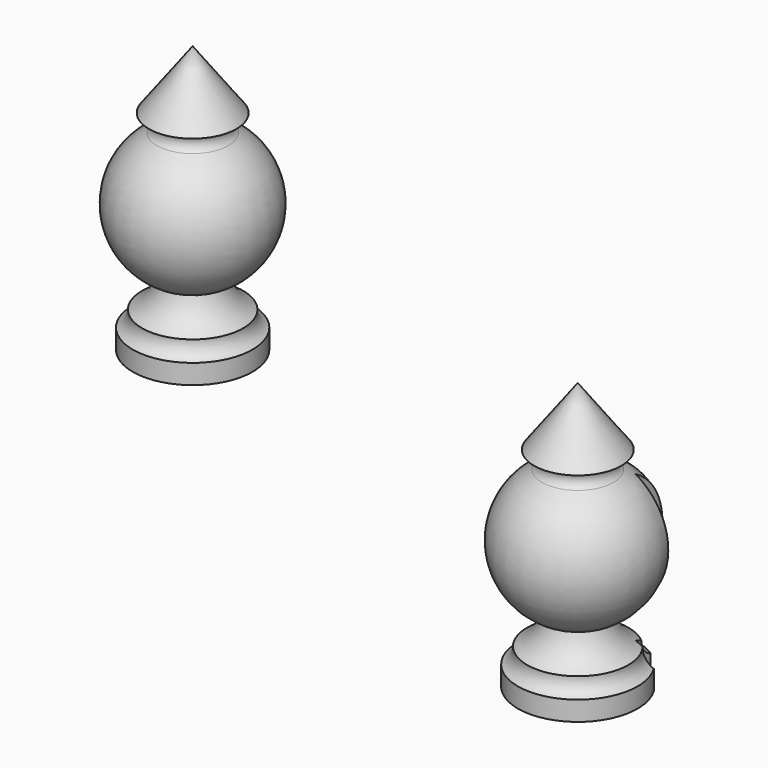
from build123d import *

# Parameters (mm, degrees)
F5_DEPTH      = 25
F5_DEPTH_BACK = 25


with BuildPart() as f1:
    # F0 (on Front) → F1 (revolve)
    with BuildSketch(Plane.XZ):
        with BuildLine():
            ThreePointArc((-60.4147613049, 43.4717573225), (-58.7075346795, 42.6419981863), (-59.1952231004, 40.8075274238))
            ThreePointArc((-59.1952231004, 40.8075274238), (-64.8542899812, 30.5882733251), (-58.1261664629, 21.0388991982))
            ThreePointArc((-58.1261664629, 21.0388991982), (-59.3491667459, 18.5461000832), (-61.4812896224, 16.7673844907))
            ThreePointArc((-61.4812896224, 16.7673844907), (-61.811140192, 15.3228748885), (-62.909193337, 14.3280439079))
            Line((-62.909193337, 14.3280439079), (-62.909193337, 11.3045470789))
            Line((-62.909193337, 11.3045470789), (-53.6724478006, 11.3045470789))
            Line((-53.6724478006, 11.3045470789), (-53.6724478006, 52.533313632))
            Line((-53.6724478006, 52.533313632), (-60.4147613049, 43.4717573225))
        make_face()
    revolve(axis=Axis((-53.6724478006, 0, 31.9189303555), (0, 0, -1)))


with BuildPart() as f3:
    # F2 (on Front) → F3 (revolve)
    with BuildSketch(Plane.XZ):
        with BuildLine():
            ThreePointArc((-1.0202481028, 17.0623989826), (0.6869785226, 16.2326398464), (0.1992901017, 14.3981690839))
            ThreePointArc((0.1992901017, 14.3981690839), (-5.459776779, 4.1789149852), (1.2683467392, -5.3704591417))
            ThreePointArc((1.2683467392, -5.3704591417), (0.0453464562, -7.8632582567), (-2.0867764203, -9.6419738492))
            ThreePointArc((-2.0867764203, -9.6419738492), (-2.4166269899, -11.0864834515), (-3.5146801349, -12.081314432))
            Line((-3.5146801349, -12.081314432), (-3.5146801349, -15.104811261))
            Line((-3.5146801349, -15.104811261), (5.7220654015, -15.104811261))
            Line((5.7220654015, -15.104811261), (5.7220654015, 26.1239552921))
            Line((5.7220654015, 26.1239552921), (-1.0202481028, 17.0623989826))
        make_face()
    revolve(axis=Axis((5.7220654015, 0, 5.5095720155), (0, 0, -1)))

    # F4 (on Top) → F5 (cut, two sides)
    with BuildSketch(Plane.XY) as f5_sk:
        Polygon((16.972437501, 11.2760709599), (11.4540543873, 11.2760709599), (10.8021032065, 11.2760709599), (10.8021032065, 4.8039741814), (16.972437501, 4.8039741814), (16.972437501, 5.6380354799), align=None)
    extrude(amount=-F5_DEPTH, mode=Mode.SUBTRACT)
    extrude(f5_sk.sketch, amount=F5_DEPTH_BACK, mode=Mode.SUBTRACT)


solid = Compound([f1.part, f3.part])
